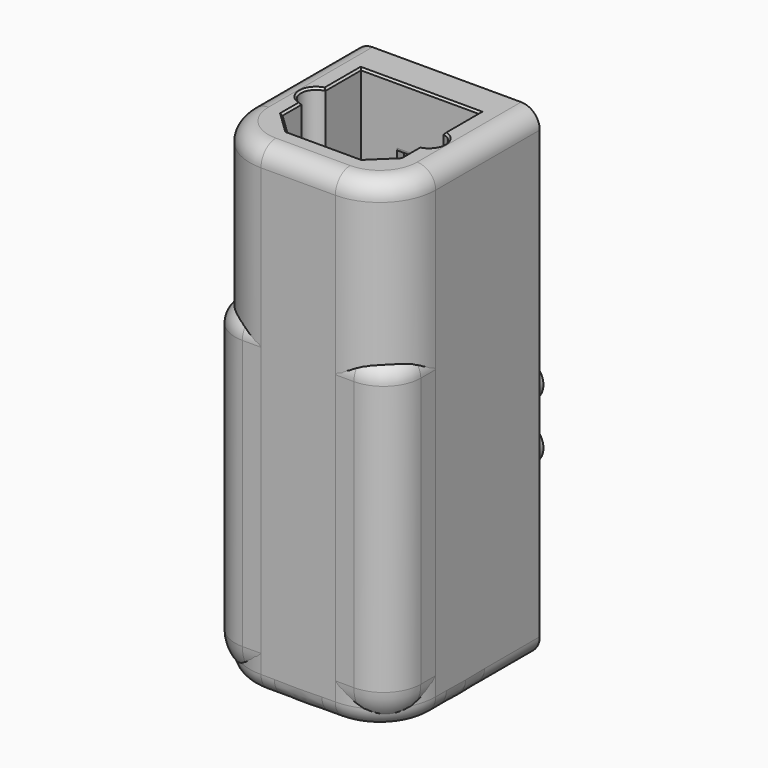
from build123d import *

# Parameters (mm, degrees)
SKETCH001_W     = 10
SKETCH001_H     = 10
PAD_DEPTH       = 17.5
POCKET_DEPTH    = 7.7
SKETCH003_R     = 1.5
POCKET001_DEPTH = 5
POCKET002_DEPTH = 8
SKETCH005_R     = 1
PAD001_DEPTH    = 1.5
FILLET_R        = 2
CHAMFER001_SIZE = 0.4
SKETCH016_W     = 2.5
SKETCH016_H     = 1
POCKET008_DEPTH = 0.5
SKETCH017_W     = 2.5
SKETCH017_H     = 1
POCKET009_DEPTH = 0.5
FILLET004_R     = 0.3
CHAMFER003_SIZE = 0.2
FILLET005_R     = 1
SKETCH006_W     = 10
SKETCH006_H     = 10
PAD002_DEPTH    = 26
POCKET003_DEPTH = 7.7
SKETCH008_R     = 1.5
POCKET004_DEPTH = 5
SKETCH010_R     = 1
PAD003_DEPTH    = 1.5
SKETCH_R        = 3.2
POCKET005_DEPTH = 14
FILLET001_R     = 3
CHAMFER_SIZE    = 1
SKETCH013_W     = 2.5
SKETCH013_H     = 1
POCKET006_DEPTH = 0.5
SKETCH015_W     = 2.5
SKETCH015_H     = 1
POCKET007_DEPTH = 0.5
FILLET002_R     = 0.2
CHAMFER002_SIZE = 0.1
FILLET003_R     = 1


with BuildPart() as receiver:
    # Sketch001 → Pad (new body)
    with BuildSketch(Plane.XY):
        Rectangle(SKETCH001_W, SKETCH001_H)
    extrude(amount=PAD_DEPTH)

    # Sketch002 (on Face6 of Pad) → Pocket (cut)
    with BuildSketch(Plane.XY.offset(17.5)):
        with BuildLine():
            Line((3.175, 3.198671), (-3.175, 3.198671))
            Line((-3.175, 3.198671), (-3.175, 0.798671))
            ThreePointArc((-3.175, 0.798671), (-3.85, 0), (-3.175, -0.798671))
            Line((-3.175, -2.078671), (-3.175, -0.798671))
            Line((-2, -3.211329), (-3.175, -2.078671))
            Line((2, -3.211329), (-2, -3.211329))
            Line((3.175, -2.078671), (2, -3.211329))
            Line((3.175, -0.798671), (3.175, -2.078671))
            ThreePointArc((3.175, -0.798671), (3.85, 0), (3.175, 0.798671))
            Line((3.175, 3.198671), (3.175, 0.798671))
        make_face()
    extrude(amount=-POCKET_DEPTH, mode=Mode.SUBTRACT)

    # Sketch003 (on Face17 of Pocket) → Pocket001 (cut)
    with BuildSketch(Plane.XY.offset(9.8)):
        Circle(SKETCH003_R)
    extrude(amount=-POCKET001_DEPTH, mode=Mode.SUBTRACT)

    # Sketch004 (on Face2 of Pocket001) → Pocket002 (cut)
    with BuildSketch(Plane(origin=(0, 5, 0), x_dir=(-1, 0, 0), z_dir=(0, 1, 0))):
        with BuildLine():
            Line((-2.193171, 2.3), (2.193171, 2.3))
            ThreePointArc((2.193171, 2.3), (0, 6), (-2.193171, 2.3))
        make_face()
    extrude(amount=-POCKET002_DEPTH, mode=Mode.SUBTRACT)

    # Sketch005 (on Face2 of Pocket002) → Pad001 (join)
    with BuildSketch(Plane(origin=(0, 5, 0), x_dir=(-1, 0, 0), z_dir=(0, 1, 0))):
        with Locations((-3, 9)):
            Circle(SKETCH005_R)
        with Locations((3, 9)):
            Circle(SKETCH005_R)
    extrude(amount=PAD001_DEPTH)

    # Fillet
    fillet_edges = [receiver.edges().sort_by_distance(p)[0] for p in [
        (-5, -5, 8.75),
        (5, -5, 8.75),
        (0, -5, 0),
        (-5, 0, 0),
        (5, 0, 0),
    ]]
    fillet(fillet_edges, radius=FILLET_R)

    # Chamfer001
    chamfer001_edges = [receiver.edges().sort_by_distance(p)[0] for p in [
        (0, 5, 6),
        (0, 5, 2.3),
    ]]
    chamfer(chamfer001_edges, length=CHAMFER001_SIZE)

    # Sketch016 (on Face20 of Chamfer001) → Pocket008 (cut)
    with BuildSketch(Plane.XZ.offset(-3.198671)):
        with Locations((0, 13.65)):
            Rectangle(SKETCH016_W, SKETCH016_H)
    extrude(amount=-POCKET008_DEPTH, mode=Mode.SUBTRACT)

    # Sketch017 (on Face25 of Pocket008) → Pocket009 (cut)
    with BuildSketch(Plane(origin=(0, -3.211329, 0), x_dir=(-1, 0, 0), z_dir=(0, 1, 0))):
        with Locations((0, 13.650002)):
            Rectangle(SKETCH017_W, SKETCH017_H)
    extrude(amount=-POCKET009_DEPTH, mode=Mode.SUBTRACT)

    # Fillet004
    fillet004_edges = [receiver.edges().sort_by_distance(p)[0] for p in [
        (0, -3.211329, 14.15),
        (0, -3.211329, 13.15),
        (0, 3.198671, 13.15),
        (0, 3.198671, 14.15),
    ]]
    fillet(fillet004_edges, radius=FILLET004_R)

    # Chamfer003
    chamfer003_edges = [receiver.edges().sort_by_distance(p)[0] for p in [
        (2.5875, -2.645, 17.5),
        (0, -3.211329, 17.5),
        (-2.5875, -2.645, 17.5),
        (-3.175, -1.438671, 17.5),
        (-3.85, 0, 17.5),
        (-3.175, 1.998671, 17.5),
        (0, 3.198671, 17.5),
        (3.175, 1.998671, 17.5),
        (3.85, 0, 17.5),
        (3.175, -1.438671, 17.5),
    ]]
    chamfer(chamfer003_edges, length=CHAMFER003_SIZE)

    # Fillet005
    fillet005_edges = [receiver.edges().sort_by_distance(p)[0] for p in [
        (-5, 1, 17.5),
        (-4.414214, -4.414214, 17.5),
        (0, -5, 17.5),
        (4.414214, -4.414214, 17.5),
        (5, 1, 17.5),
    ]]
    fillet(fillet005_edges, radius=FILLET005_R)


with BuildPart() as transmitter:
    # Sketch006 → Pad002 (new body)
    with BuildSketch(Plane.XY):
        Rectangle(SKETCH006_W, SKETCH006_H)
    extrude(amount=PAD002_DEPTH)

    # Sketch007 (on Face6 of Pad002) → Pocket003 (cut)
    with BuildSketch(Plane.XY.offset(26)):
        with BuildLine():
            Line((3.175, 3.198671), (-3.175, 3.198671))
            Line((-3.175, 3.198671), (-3.175, 0.798671))
            ThreePointArc((-3.175, 0.798671), (-3.85, 0), (-3.175, -0.798671))
            Line((-3.175, -2.078671), (-3.175, -0.798671))
            Line((-2, -3.211329), (-3.175, -2.078671))
            Line((2, -3.211329), (-2, -3.211329))
            Line((3.175, -2.078671), (2, -3.211329))
            Line((3.175, -0.798671), (3.175, -2.078671))
            ThreePointArc((3.175, -0.798671), (3.85, 0), (3.175, 0.798671))
            Line((3.175, 3.198671), (3.175, 0.798671))
        make_face()
    extrude(amount=-POCKET003_DEPTH, mode=Mode.SUBTRACT)

    # Sketch008 (on Face17 of Pocket003) → Pocket004 (cut)
    with BuildSketch(Plane.XY.offset(18.3)):
        Circle(SKETCH008_R)
    extrude(amount=-POCKET004_DEPTH, mode=Mode.SUBTRACT)

    # Sketch010 → Pad003 (join)
    with BuildSketch(Plane(origin=(0, 5, 0), x_dir=(-1, 0, 0), z_dir=(0, 1, 0))):
        with Locations((-3, 12)):
            Circle(SKETCH010_R)
        with Locations((3, 12)):
            Circle(SKETCH010_R)
        with Locations((0, 4)):
            Circle(SKETCH010_R)
    extrude(amount=PAD003_DEPTH)

    # Sketch (on Face4 of Pad003) → Pocket005 (cut)
    with BuildSketch(Plane(origin=(0, 0, 0), x_dir=(1, 0, 0), z_dir=(0, 0, -1))):
        Circle(SKETCH_R)
    extrude(amount=-POCKET005_DEPTH, mode=Mode.SUBTRACT)

    # Fillet001
    fillet001_edges = [transmitter.edges().sort_by_distance(p)[0] for p in [
        (-5, -5, 13),
        (5, -5, 13),
    ]]
    fillet(fillet001_edges, radius=FILLET001_R)

    # Chamfer
    chamfer_edges = [transmitter.edges().sort_by_distance(p)[0] for p in [
        (-3.2, 0, 0),
    ]]
    chamfer(chamfer_edges, length=CHAMFER_SIZE)

    # Sketch013 (on Face17 of Chamfer) → Pocket006 (cut)
    with BuildSketch(Plane.XZ.offset(-3.198671)):
        with Locations((0, 22.15)):
            Rectangle(SKETCH013_W, SKETCH013_H)
    extrude(amount=-POCKET006_DEPTH, mode=Mode.SUBTRACT)

    # Sketch015 (on Face22 of Pocket006) → Pocket007 (cut)
    with BuildSketch(Plane(origin=(0, -3.211329, 0), x_dir=(-1, 0, 0), z_dir=(0, 1, 0))):
        with Locations((0, 22.150002)):
            Rectangle(SKETCH015_W, SKETCH015_H)
    extrude(amount=-POCKET007_DEPTH, mode=Mode.SUBTRACT)

    # Fillet002
    fillet002_edges = [transmitter.edges().sort_by_distance(p)[0] for p in [
        (0, 3.198671, 21.65),
        (0, 3.198671, 22.65),
        (0, -3.211329, 21.65),
        (0, -3.211329, 22.65),
    ]]
    fillet(fillet002_edges, radius=FILLET002_R)

    # Chamfer002
    chamfer002_edges = [transmitter.edges().sort_by_distance(p)[0] for p in [
        (2.5875, -2.645, 26),
        (0, -3.211329, 26),
        (-2.5875, -2.645, 26),
        (-3.175, -1.438671, 26),
        (-3.85, 0, 26),
        (-3.175, 1.998671, 26),
        (0, 3.198671, 26),
        (3.175, 1.998671, 26),
        (3.85, 0, 26),
        (3.175, -1.438671, 26),
    ]]
    chamfer(chamfer002_edges, length=CHAMFER002_SIZE)

    # Fillet003
    fillet003_edges = [transmitter.edges().sort_by_distance(p)[0] for p in [
        (4.12132, -4.12132, 26),
        (-4.12132, -4.12132, 26),
        (0, -5, 26),
        (-5, 1.5, 26),
        (5, 1.5, 26),
        (-5, 1.5, 0),
        (-4.12132, -4.12132, 0),
        (0, -5, 0),
        (4.12132, -4.12132, 0),
        (5, 1.5, 0),
    ]]
    fillet(fillet003_edges, radius=FILLET003_R)


solid = Compound([receiver.part, transmitter.part])
